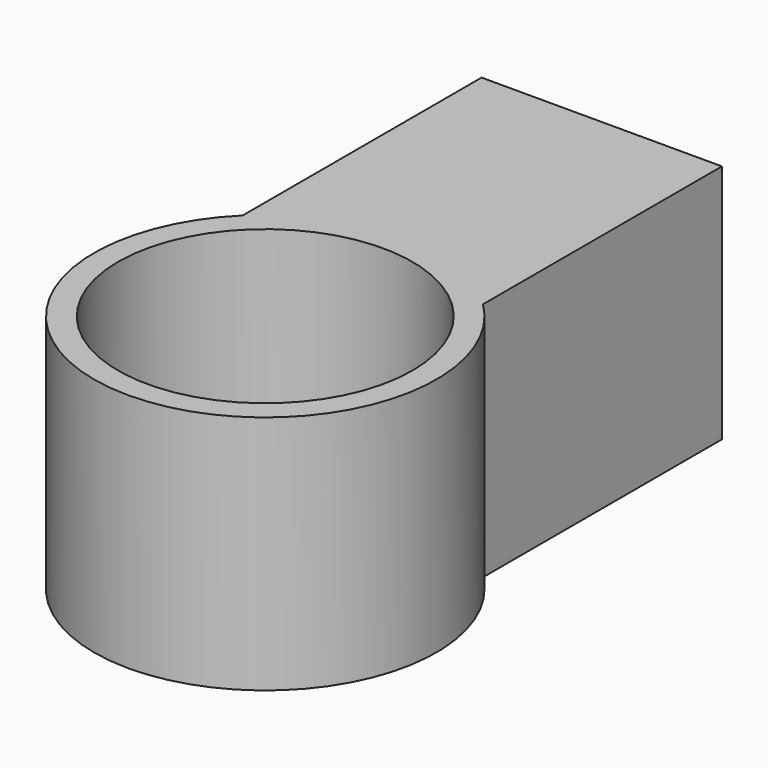
from build123d import *

# Parameters (mm, degrees)
F0_R     = 24.5
F1_DEPTH = 40
F2_R     = 1.65
F3_DEPTH = 35


with BuildPart() as f1:
    # F0 (on Top) → F1 (new body)
    with BuildSketch(Plane.XY):
        with BuildLine():
            Line((20, 70), (-20, 70))
            Line((-20, 70), (-20, 20.303941))
            ThreePointArc((-20, 20.303941), (0, -28.5), (20, 20.303941))
            Line((20, 20.303941), (20, 70))
        make_face()
        Circle(F0_R, mode=Mode.SUBTRACT)
    extrude(amount=F1_DEPTH)

    # F2 (on face) → F3 (cut)
    with BuildSketch(Plane(origin=(0, 70, 0), x_dir=(-1, 0, 0), z_dir=(0, 1, 0))):
        with Locations((-10, 30)):
            Circle(F2_R)
        with Locations((10, 30)):
            Circle(F2_R)
        with Locations((10, 10)):
            Circle(F2_R)
        with Locations((-10, 10)):
            Circle(F2_R)
    extrude(amount=-F3_DEPTH, mode=Mode.SUBTRACT)


solid = f1.part
